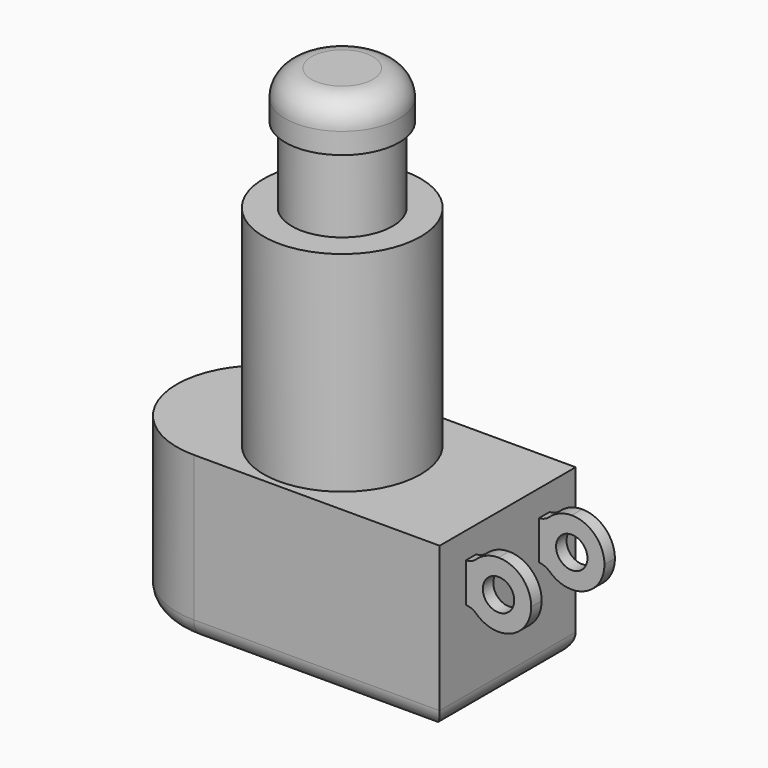
from build123d import *

# Parameters (mm, degrees)
F1_DEPTH  = 12.6
F2_R      = 6
F3_DEPTH  = 16
F4_R      = 3.85
F5_DEPTH  = 5.8
F6_R      = 4.35
F7_DEPTH  = 3.6
F8_R      = 2
F9_R      = 1.5
F10_W     = 1
F10_H     = 5
F11_DEPTH = 5
F12_R     = 1.2
F13_DEPTH = 10.501


with BuildPart() as f1:
    # F0 (on Top) → F1 (new body)
    with BuildSketch(Plane.XY):
        with BuildLine():
            Line((-6.15, -6.5), (12.65, -6.5))
            Line((12.65, -6.5), (12.65, 6.5))
            Line((12.65, 6.5), (-6.15, 6.5))
            ThreePointArc((-6.15, 6.5), (-10.746194, 4.596194), (-12.65, 0))
            ThreePointArc((-12.65, 0), (-10.746194, -4.596194), (-6.15, -6.5))
        make_face()
    extrude(amount=-F1_DEPTH)

    # F2 (on Top) → F3 (join)
    with BuildSketch(Plane.XY):
        Circle(F2_R)
    extrude(amount=F3_DEPTH)

    # F4 (on face) → F5 (join)
    with BuildSketch(Plane.XY.offset(16)):
        Circle(F4_R)
    extrude(amount=F5_DEPTH)

    # F6 (on face) → F7 (join)
    with BuildSketch(Plane.XY.offset(21.8)):
        Circle(F6_R)
    extrude(amount=F7_DEPTH)

    # F8
    f8_edges = [f1.edges().sort_by_distance(p)[0] for p in [
        (-4.35, 0, 25.4),
    ]]
    fillet(f8_edges, radius=F8_R)

    # F9
    f9_edges = [f1.edges().sort_by_distance(p)[0] for p in [
        (3.25, -6.5, -12.6),
        (12.65, 0, -12.6),
        (3.25, 6.5, -12.6),
        (-12.65, 0, -12.6),
    ]]
    fillet(f9_edges, radius=F9_R)

    # F10 (on face) → F11 (join)
    with BuildSketch(Plane.YZ.offset(12.65)):
        with Locations((-3.5, -3.5)):
            Rectangle(F10_W, F10_H)
        with Locations((3.5, -3.5)):
            Rectangle(F10_W, F10_H)
    extrude(amount=F11_DEPTH)

    # F12 (on face) → F13 (cut, through all)
    with BuildSketch(Plane.XZ.offset(4)):
        with Locations((15.15, -3.5)):
            Circle(F12_R)
        with BuildLine():
            Line((12.65, -1), (12.65, -2))
            ThreePointArc((12.65, -2), (13.079724, -1.904888), (13.45, -1.66697))
            ThreePointArc((13.45, -1.66697), (14.236922, -1.172708), (15.15, -1))
            Line((15.15, -1), (12.65, -1))
        make_face()
        with BuildLine():
            ThreePointArc((17.65, -3.5), (16.917767, -5.267767), (15.15, -6))
            Line((15.15, -6), (17.65, -6))
            Line((17.65, -6), (17.65, -3.5))
        make_face()
        with BuildLine():
            ThreePointArc((15.15, -1), (16.917767, -1.732233), (17.65, -3.5))
            Line((17.65, -3.5), (17.65, -1))
            Line((17.65, -1), (15.15, -1))
        make_face()
        with BuildLine():
            ThreePointArc((15.15, -6), (14.236922, -5.827292), (13.45, -5.33303))
            ThreePointArc((13.45, -5.33303), (13.079724, -5.095112), (12.65, -5))
            Line((12.65, -5), (12.65, -6))
            Line((12.65, -6), (15.15, -6))
        make_face()
    extrude(amount=-F13_DEPTH, mode=Mode.SUBTRACT)


solid = f1.part
